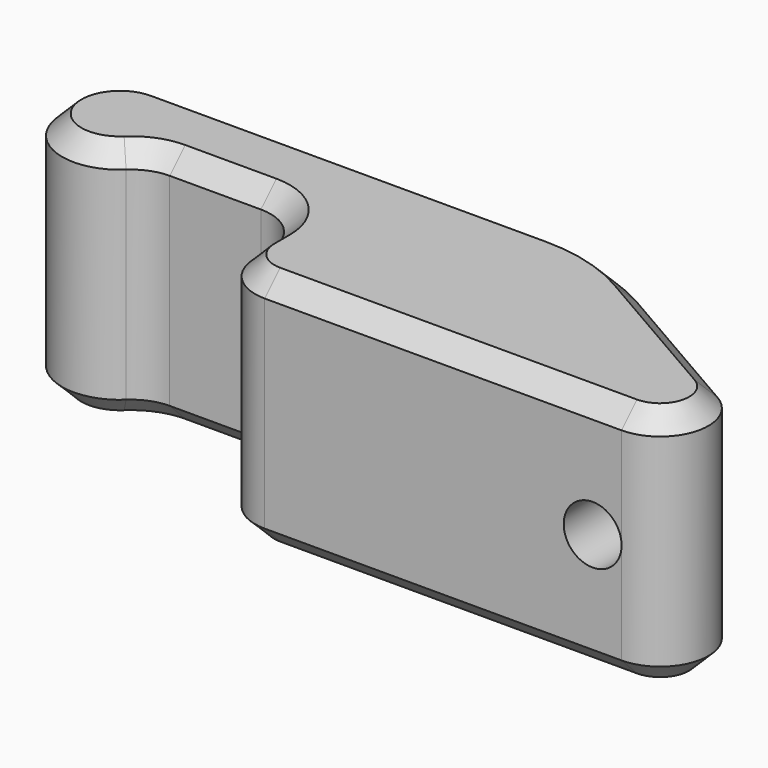
from build123d import *

# Parameters (mm, degrees)
F1_DEPTH = 12.5
F2_W     = 2
F2_H     = 19.5
F3_DEPTH = 16.5
F4_SIZE  = 2
F5_R     = 3
F6_DEPTH = 21.001


with BuildPart() as f1:
    # F0 (on Top) → F1 (new body, symmetric)
    with BuildSketch(Plane.XY):
        with BuildLine():
            Line((49.5, 2.330127), (33.928203, 11.320508))
            ThreePointArc((33.928203, 11.320508), (29.104584, 13.318517), (23.928203, 14))
            Line((23.928203, 14), (-17, 14))
            ThreePointArc((-17, 14), (-22.575922, 5.784353), (-12.881908, 3.636364))
            ThreePointArc((-12.881908, 3.636364), (-11.296538, 4.646602), (-9.450166, 5))
            Line((-9.450166, 5), (0, 5))
            ThreePointArc((0, 5), (3.535534, 3.535534), (5, 0))
            Line((5, 0), (5, -2))
            ThreePointArc((5, -2), (6.464466, -5.535534), (10, -7))
            Line((10, -7), (47, -7))
            ThreePointArc((47, -7), (51.829629, -3.294095), (49.5, 2.330127))
        make_face()
    extrude(amount=F1_DEPTH, both=True)

    # F2 (on face) → F3 (cut)
    with BuildSketch(Plane(origin=(5, 0, 0), x_dir=(0, -1, 0), z_dir=(-1, 0, 0))):
        with Locations((1.5, 0)):
            Rectangle(F2_W, F2_H)
    extrude(amount=-F3_DEPTH, mode=Mode.SUBTRACT)

    # F4
    f4_edges = [f1.edges().sort_by_distance(p)[0] for p in [
        (41.714102, 6.825318, 12.5),
        (29.104584, 13.318517, 12.5),
        (3.464102, 14, 12.5),
        (-22.575922, 5.784353, 12.5),
        (-11.296538, 4.646602, 12.5),
        (-4.725083, 5, 12.5),
        (3.535534, 3.535534, 12.5),
        (5, -1, 12.5),
        (6.464466, -5.535534, 12.5),
        (28.5, -7, 12.5),
        (51.829629, -3.294095, 12.5),
        (41.714102, 6.825318, -12.5),
        (29.104584, 13.318517, -12.5),
        (3.464102, 14, -12.5),
        (-22.575922, 5.784353, -12.5),
        (-11.296538, 4.646602, -12.5),
        (-4.725083, 5, -12.5),
        (3.535534, 3.535534, -12.5),
        (5, -1, -12.5),
        (6.464466, -5.535534, -12.5),
        (28.5, -7, -12.5),
        (51.829629, -3.294095, -12.5),
    ]]
    chamfer(f4_edges, length=F4_SIZE)

    # F5 (on face) → F6 (cut, through all)
    with BuildSketch(Plane.XZ.offset(7)):
        with Locations((44, 0)):
            Circle(F5_R)
    extrude(amount=-F6_DEPTH, mode=Mode.SUBTRACT)


solid = f1.part
